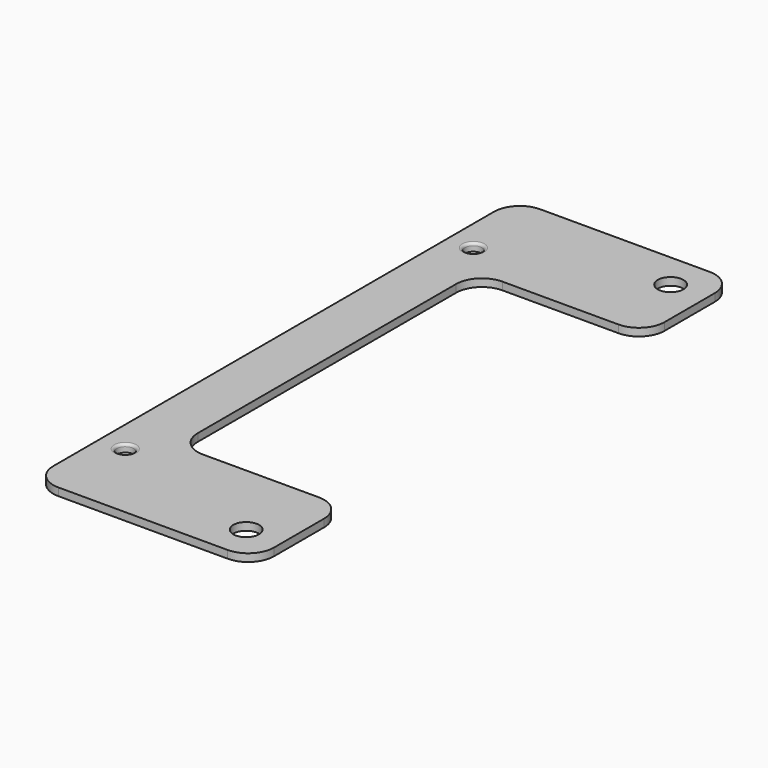
from build123d import *

# Parameters (mm, degrees)
F0_R     = 1.65
F0_R_2   = 2.5
F1_DEPTH = 1.5
F2_R     = 0.5


with BuildPart() as f1:
    # F0 (on Top) → F1 (new body)
    with BuildSketch(Plane.XY):
        with BuildLine():
            Line((-30.61123, -31.480136), (-30.61123, 0))
            Line((-30.61123, 0), (-41, 0))
            Line((-41, 0), (-41, -53.7))
            ThreePointArc((-41, -53.7), (-39.535534, -57.235534), (-36, -58.7))
            Line((-36, -58.7), (-3, -58.7))
            ThreePointArc((-3, -58.7), (0.535534, -57.235534), (2, -53.7))
            Line((2, -53.7), (2, -41.480136))
            ThreePointArc((2, -41.480136), (0.535534, -37.944602), (-3, -36.480136))
            Line((-3, -36.480136), (-25.61123, -36.480136))
            ThreePointArc((-25.61123, -36.480136), (-29.146764, -35.01567), (-30.61123, -31.480136))
        make_face()
        with Locations((-36, -42.4)):
            Circle(F0_R, mode=Mode.SUBTRACT)
        with Locations((-5, -51.7)):
            Circle(F0_R_2, mode=Mode.SUBTRACT)
        with BuildLine():
            Line((-41, 0), (-30.61123, 0))
            Line((-30.61123, 0), (-30.61123, 31.480136))
            ThreePointArc((-30.61123, 31.480136), (-29.146764, 35.01567), (-25.61123, 36.480136))
            Line((-25.61123, 36.480136), (-3, 36.480136))
            ThreePointArc((-3, 36.480136), (0.535534, 37.944602), (2, 41.480136))
            Line((2, 41.480136), (2, 53.7))
            ThreePointArc((2, 53.7), (0.535534, 57.235534), (-3, 58.7))
            Line((-3, 58.7), (-36, 58.7))
            ThreePointArc((-36, 58.7), (-39.535534, 57.235534), (-41, 53.7))
            Line((-41, 53.7), (-41, 0))
        make_face()
        with Locations((-36, 42.4)):
            Circle(F0_R, mode=Mode.SUBTRACT)
        with Locations((-5, 51.7)):
            Circle(F0_R_2, mode=Mode.SUBTRACT)
    extrude(amount=F1_DEPTH)

    # F2
    f2_edges = [f1.edges().sort_by_distance(p)[0] for p in [
        (-37.65, 42.4, 1.5),
        (-37.65, -42.4, 1.5),
    ]]
    fillet(f2_edges, radius=F2_R)


solid = f1.part
